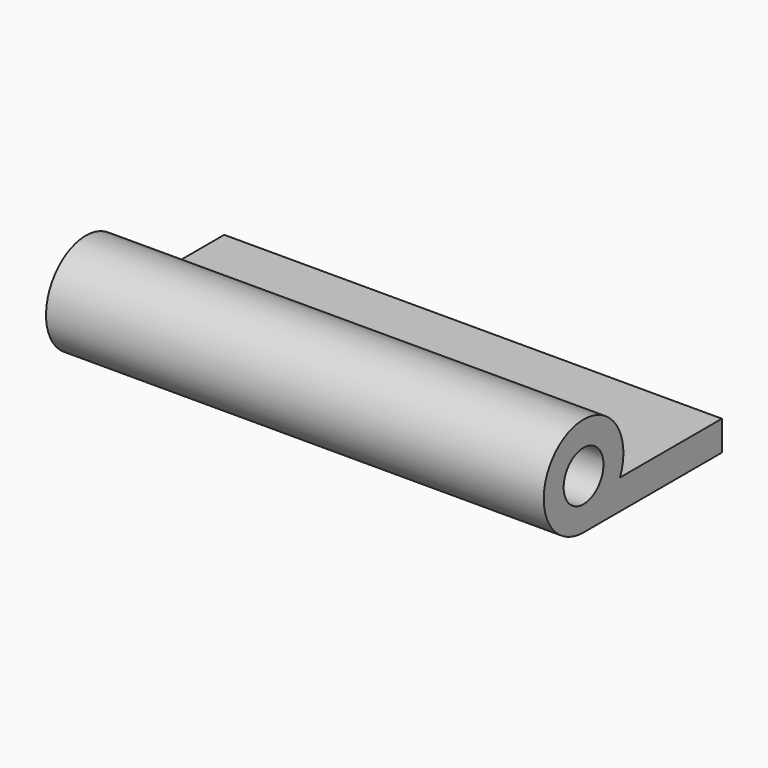
from build123d import *

# Parameters (mm, degrees)
F0_R     = 2.5
F1_DEPTH = 50


with BuildPart() as f1:
    # F0 (on Right) → F1 (new body)
    with BuildSketch(Plane.YZ):
        with BuildLine():
            Line((17.373618, -2), (4.582576, -2))
            ThreePointArc((4.582576, -2), (-2.738613, 4.1833), (0, -5))
            Line((0, -5), (17.373618, -5))
            Line((17.373618, -5), (17.373618, -2))
        make_face()
        Circle(F0_R, mode=Mode.SUBTRACT)
    extrude(amount=F1_DEPTH)


solid = f1.part
